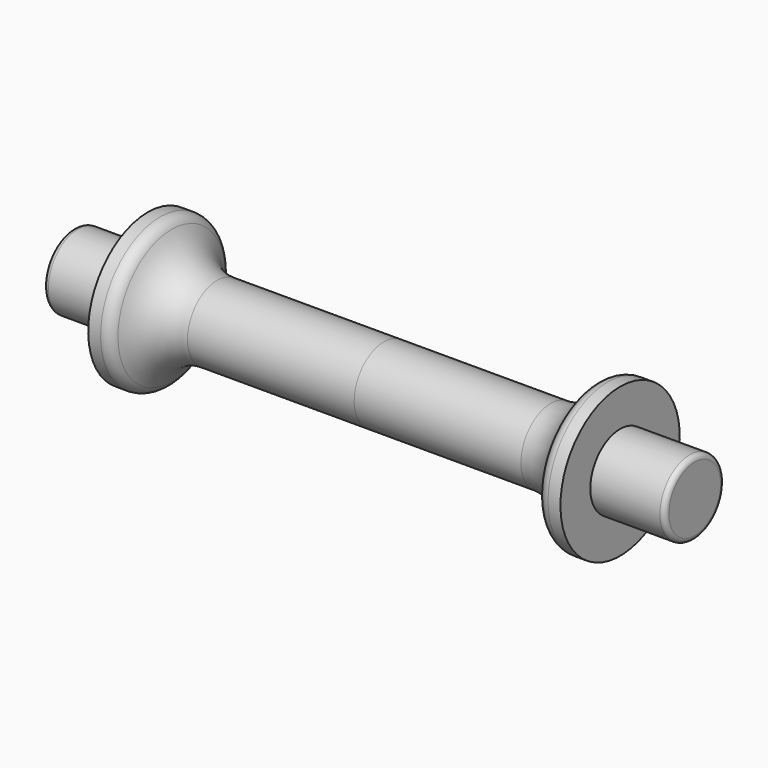
from build123d import *

# Parameters (mm, degrees)
F3_R = 2


with BuildPart() as f1:
    # F0 (on Front) → F1 (revolve)
    with BuildSketch(Plane.XZ):
        with BuildLine():
            Line((67.0871215252, 15.234352517), (0, 15.234352517))
            Line((0, 15.234352517), (0, 0.234352517))
            Line((0, 0.234352517), (125, 0.234352517))
            Line((125, 0.234352517), (125, 15.234352517))
            Line((125, 15.234352517), (95, 15.234352517))
            Line((95, 15.234352517), (95, 30.234352517))
            Line((95, 30.234352517), (90, 30.234352517))
            ThreePointArc((90, 30.234352517), (87.2613872125, 29.4176526497), (85.417424305, 27.234352517))
            ThreePointArc((85.417424305, 27.234352517), (78.0415726753, 18.5011519863), (67.0871215252, 15.234352517))
        make_face()
    revolve(axis=Axis((62.5, 0, 0.234352517), (-1, 0, 0)))

    # F2: F1 across face


with BuildPart() as f1_1:
    add(f1.part)
    add(f1.part.mirror(Plane(origin=(0, 0, 0.234352517), x_dir=(0, -1, 0), z_dir=(-1, 0, 0))))

    # F3
    f3_edges = [f1_1.edges().sort_by_distance(p)[0] for p in [
        (-125, 0, -14.765647),
        (125, 0, -14.765647),
    ]]
    fillet(f3_edges, radius=F3_R)


solid = f1_1.part
